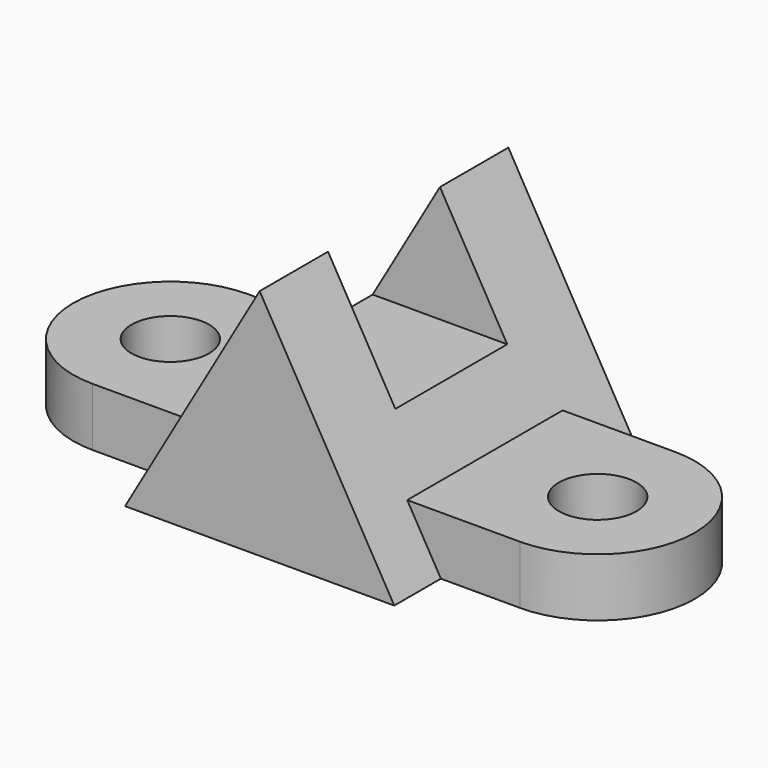
from build123d import *

# Parameters (mm, degrees)
F0_R     = 10
F1_DEPTH = 15
F3_DEPTH = 40
F4_DEPTH = 80
F5_W     = 36
F5_H     = 30
F6_DEPTH = 80


with BuildPart() as f1:
    # F0 (on Top) → F1 (new body)
    with BuildSketch(Plane.XY):
        with BuildLine():
            Line((-110, -25), (0, -25))
            ThreePointArc((0, -25), (25, 0), (0, 25))
            Line((0, 25), (-110, 25))
            ThreePointArc((-110, 25), (-135, 0), (-110, -25))
        make_face()
        with Locations((-110, 0)):
            Circle(F0_R, mode=Mode.SUBTRACT)
        Circle(F0_R, mode=Mode.SUBTRACT)
    extrude(amount=F1_DEPTH)

    # F2 (on Front) → F3 (join)
    with BuildSketch(Plane.XZ):
        Polygon((-89.641016, 0), (-55, 0), (-55, 60), align=None)
        Polygon((-55, 0), (-20.358984, 0), (-55, 60), align=None)
    extrude(amount=F3_DEPTH)

    # F3_face (on face) → F4 (join)
    with BuildSketch(Plane(origin=(-55, -40, 20), x_dir=(1, 0, 0), z_dir=(0, -1, 0))):
        Polygon((-34.641016, -20), (34.641016, -20), (0, 40), align=None)
    extrude(amount=-F4_DEPTH)

    # F5 (on Right) → F6 (cut)
    with BuildSketch(Plane.YZ):
        with Locations((0, 45)):
            Rectangle(F5_W, F5_H)
    extrude(amount=-F6_DEPTH, mode=Mode.SUBTRACT)


solid = f1.part
